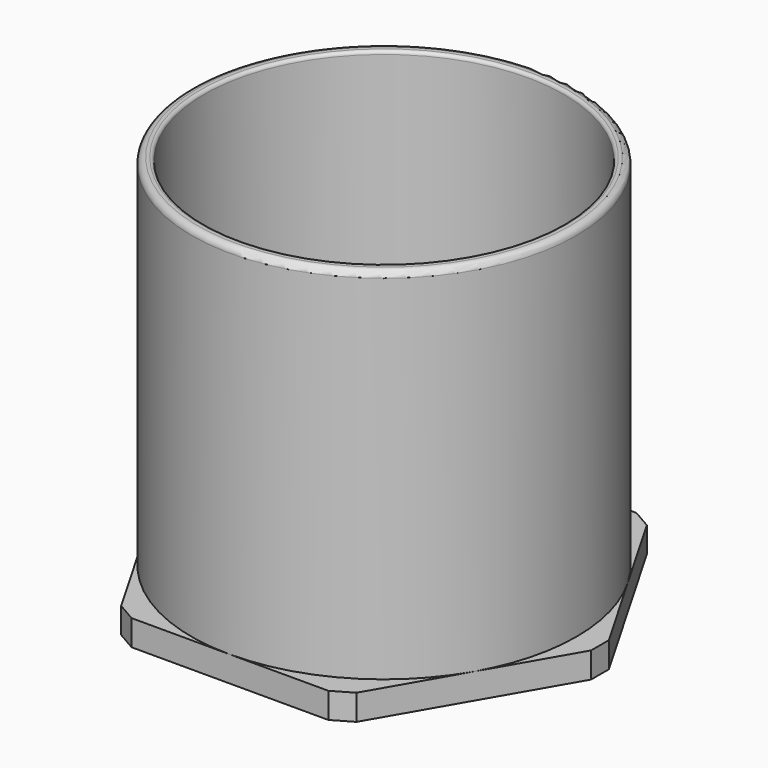
from build123d import *

# Parameters (mm, degrees)
SKETCH_R              = 30
PAD_DEPTH             = 60
SKETCH001_R           = 28
POCKET_DEPTH          = 56
POLARPATTERN_COUNT    = 8
POLARPATTERN001_COUNT = 16
POLARPATTERN002_COUNT = 24
PAD001_DEPTH          = 4
SKETCH003_R           = 5.075
POCKET001_DEPTH       = 2.15
SKETCH004_R           = 5.075
POCKET002_DEPTH       = 2
SKETCH005_R           = 5.075
POCKET003_DEPTH       = 2
SKETCH006_R           = 5.075
POCKET004_DEPTH       = 2
CHAMFER_SIZE          = 2
FILLET_R              = 2
FILLET001_R           = 0.5
FILLET002_R           = 1


with BuildPart() as part:
    # Sketch → Pad (new body)
    with BuildSketch(Plane.XY):
        Circle(SKETCH_R)
    extrude(amount=PAD_DEPTH)

    # Sketch001 (on Face3 of Pad) → Pocket (cut)
    with BuildSketch(Plane.XY.offset(60)):
        Circle(SKETCH001_R)
    extrude(amount=-POCKET_DEPTH, mode=Mode.SUBTRACT)

    # Sphere → Sphere (revolve)
    with BuildSketch(Plane(origin=(0, 0, 4), x_dir=(1, 0, 0), z_dir=(0, -1, 0))):
        with BuildLine():
            ThreePointArc((0, -4), (4, 0), (0, 4))
            Line((0, 4), (0, -4))
        make_face()
    revolve(axis=Axis((0, 0, 4), (0, 0, 1)))

    # Sphere001 → Sphere001 (revolve)
    with BuildSketch(Plane(origin=(7, 0, 4), x_dir=(1, 0, 0), z_dir=(0, -1, 0))):
        with BuildLine():
            ThreePointArc((0, -4), (4, 0), (0, 4))
            Line((0, 4), (0, -4))
        make_face()
    sphere001 = revolve(axis=Axis((7, 0, 4), (0, 0, 1)))

    # PolarPattern: Sphere001 ×8 about axis
    polarpattern_axis = Axis((0, 0, 0), (0, 0, 1))
    for i in range(1, POLARPATTERN_COUNT):
        add(sphere001.rotate(polarpattern_axis, i * 360 / POLARPATTERN_COUNT))

    # Sphere002 → Sphere002 (revolve)
    with BuildSketch(Plane(origin=(0, 14, 4), x_dir=(1, 0, 0), z_dir=(0, -1, 0))):
        with BuildLine():
            ThreePointArc((0, -4), (4, 0), (0, 4))
            Line((0, 4), (0, -4))
        make_face()
    sphere002 = revolve(axis=Axis((0, 14, 4), (0, 0, 1)))

    # PolarPattern001: Sphere002 ×16 about axis
    polarpattern001_axis = Axis((0, 0, 0), (0, 0, 1))
    for i in range(1, POLARPATTERN001_COUNT):
        add(sphere002.rotate(polarpattern001_axis, i * 360 / POLARPATTERN001_COUNT))

    # Sphere003 → Sphere003 (revolve)
    with BuildSketch(Plane(origin=(21, 0, 4), x_dir=(1, 0, 0), z_dir=(0, -1, 0))):
        with BuildLine():
            ThreePointArc((0, -4), (4, 0), (0, 4))
            Line((0, 4), (0, -4))
        make_face()
    sphere003 = revolve(axis=Axis((21, 0, 4), (0, 0, 1)))

    # PolarPattern002: Sphere003 ×24 about axis
    polarpattern002_axis = Axis((0, 0, 0), (0, 0, 1))
    for i in range(1, POLARPATTERN002_COUNT):
        add(sphere003.rotate(polarpattern002_axis, i * 360 / POLARPATTERN002_COUNT))

    # Sketch002 (on Face2 of PolarPattern002) → Pad001 (join)
    with BuildSketch(Plane(origin=(21, 0, 0), x_dir=(1, 0, 0), z_dir=(0, 0, -1))):
        Polygon((13.641016, 0), (-3.679492, 30), (-38.320508, 30), (-55.641016, 0), (-38.320508, -30), (-3.679492, -30), align=None)
    extrude(amount=-PAD001_DEPTH)

    # Sketch003 (on Face1 of Pad001) → Pocket001 (cut)
    with BuildSketch(Plane(origin=(21, 0, 0), x_dir=(1, 0, 0), z_dir=(0, 0, -1))):
        with Locations((-43, 0)):
            Circle(SKETCH003_R)
    extrude(amount=-POCKET001_DEPTH, mode=Mode.SUBTRACT)

    # Sketch004 (on Face1 of Pocket001) → Pocket002 (cut)
    with BuildSketch(Plane(origin=(21, 0, 0), x_dir=(1, 0, 0), z_dir=(0, 0, -1))):
        Circle(SKETCH004_R)
    extrude(amount=-POCKET002_DEPTH, mode=Mode.SUBTRACT)

    # Sketch005 (on Face1 of Pocket002) → Pocket003 (cut)
    with BuildSketch(Plane(origin=(21, 0, 0), x_dir=(1, 0, 0), z_dir=(0, 0, -1))):
        with Locations((-21, 21)):
            Circle(SKETCH005_R)
    extrude(amount=-POCKET003_DEPTH, mode=Mode.SUBTRACT)

    # Sketch006 (on Face1 of Pocket003) → Pocket004 (cut)
    with BuildSketch(Plane(origin=(21, 0, 0), x_dir=(1, 0, 0), z_dir=(0, 0, -1))):
        with Locations((-21, -21)):
            Circle(SKETCH006_R)
    extrude(amount=-POCKET004_DEPTH, mode=Mode.SUBTRACT)

    # Chamfer
    chamfer_edges = [part.edges().sort_by_distance(p)[0] for p in [
        (-34.641016, 0, 2),
        (-17.320508, -30, 2),
        (17.320508, -30, 2),
        (34.641016, 0, 2),
        (17.320508, 30, 2),
        (-17.320508, 30, 2),
    ]]
    chamfer(chamfer_edges, length=CHAMFER_SIZE)

    # Fillet
    fillet_edges = [part.edges().sort_by_distance(p)[0] for p in [
        (-28, 0, 4),
    ]]
    fillet(fillet_edges, radius=FILLET_R)

    # Fillet001
    fillet001_edges = [part.edges().sort_by_distance(p)[0] for p in [
        (-28, 0, 60),
    ]]
    fillet(fillet001_edges, radius=FILLET001_R)

    # Fillet002
    fillet002_edges = [part.edges().sort_by_distance(p)[0] for p in [
        (-30, 0, 60),
    ]]
    fillet(fillet002_edges, radius=FILLET002_R)


solid = part.part
